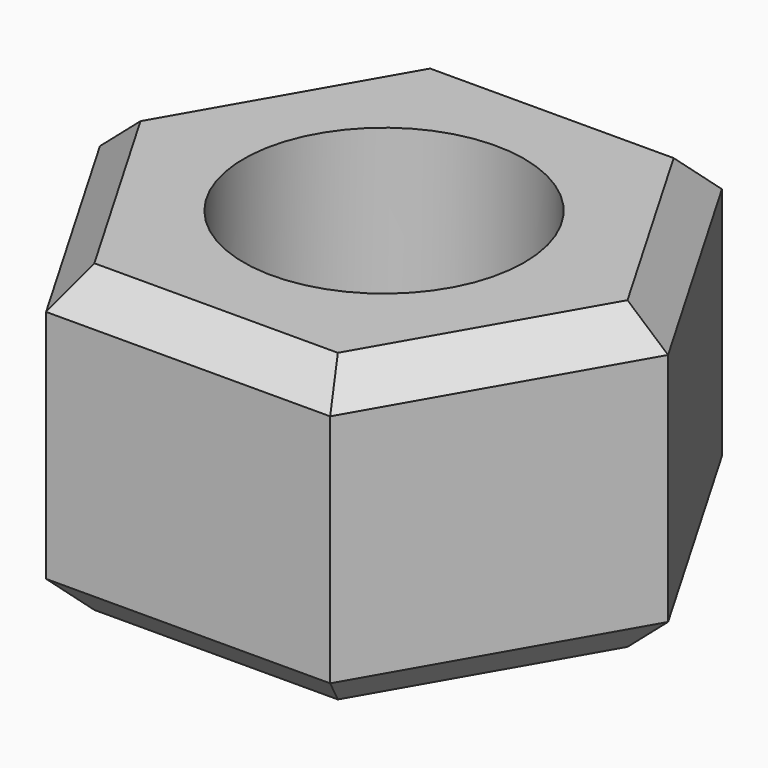
from build123d import *

# Parameters (mm, degrees)
F0_R     = 4
F1_DEPTH = 8.7
F2_SIZE  = 1


with BuildPart() as f1:
    # F0 (on Top) → F1 (new body)
    with BuildSketch(Plane.XY):
        Polygon((4.057701, -6.990594), (8.082882, 0.018775), (4.025181, 7.009369), (-4.057701, 6.990594), (-8.082882, -0.018775), (-4.025181, -7.009369), align=None)
        Circle(F0_R, mode=Mode.SUBTRACT)
    extrude(amount=F1_DEPTH)

    # F2
    f2_edges = [f1.edges().sort_by_distance(p)[0] for p in [
        (-6.070291, 3.485909, 8.7),
        (-6.054032, -3.514072, 8.7),
        (0.01626, -6.999981, 8.7),
        (6.070291, -3.485909, 8.7),
        (6.054032, 3.514072, 8.7),
        (-0.01626, 6.999981, 8.7),
        (-6.070291, 3.485909, 0),
        (-0.01626, 6.999981, 0),
        (-6.054032, -3.514072, 0),
        (0.01626, -6.999981, 0),
        (6.070291, -3.485909, 0),
        (6.054032, 3.514072, 0),
    ]]
    chamfer(f2_edges, length=F2_SIZE)


solid = f1.part
